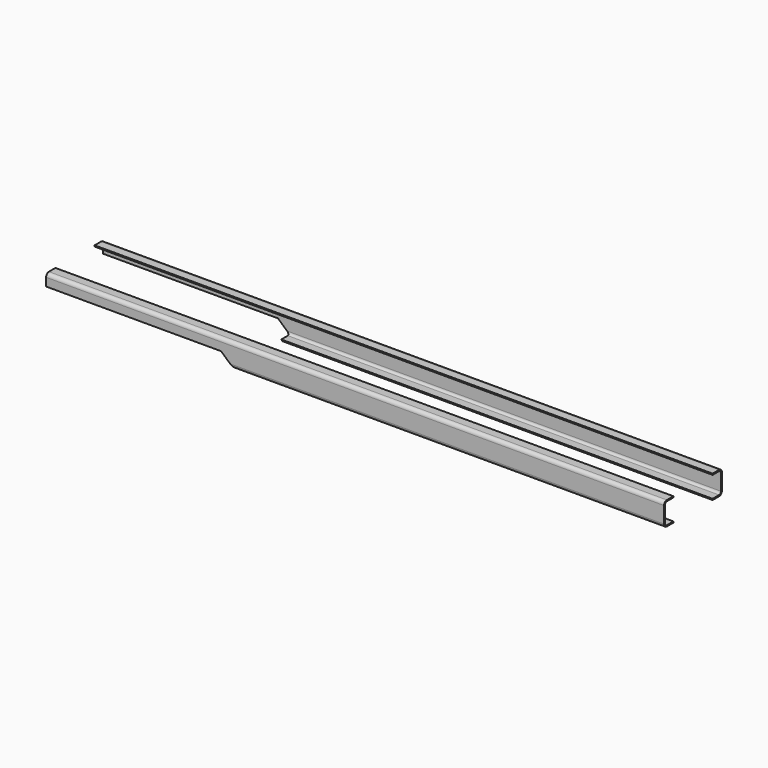
from build123d import *

# Parameters (mm, degrees)
BOX078_W               = 70
BOX078_H               = 62
BOX078_DEPTH           = 20
BOX012_W               = 10
BOX012_H               = 62
BOX012_DEPTH           = 32
BOX012_PLACEMENT_ANGLE = 3
BOX010_W               = 600
BOX010_H               = 10
BOX010_DEPTH           = 18
FILLET006_R            = 2
BOX011_W               = 600
BOX011_H               = 10
BOX011_DEPTH           = 18
FILLET005_R            = 2
BOX006_W               = 150
BOX006_H               = 62
BOX006_DEPTH           = 10
BOX006_PLACEMENT_ANGLE = 3
BOX007_W               = 20
BOX007_H               = 62
BOX007_DEPTH           = 10
BOX007_PLACEMENT_ANGLE = 45
BOX_W                  = 600
BOX_H                  = 10
BOX_DEPTH              = 20
BOX_PLACEMENT_ANGLE    = 3
BOX001_W               = 600
BOX001_H               = 10
BOX001_DEPTH           = 20
BOX001_PLACEMENT_ANGLE = 3
FILLET001_R            = 3
CUT001_PLACEMENT_ANGLE = 3


with BuildPart() as cube048:
    # Box078 → Box078 (new body)
    with BuildSketch(Plane(origin=(530, 0, 0), x_dir=(1, 0, 0), z_dir=(0, 0, 1))):
        with Locations((35, 31)):
            Rectangle(BOX078_W, BOX078_H)
    extrude(amount=BOX078_DEPTH)


with BuildPart() as box012:
    # Box012 → Box012 (new body)
    with BuildSketch(Plane.XY):
        with Locations((5, 31)):
            Rectangle(BOX012_W, BOX012_H)
    extrude(amount=BOX012_DEPTH)


with BuildPart() as box012_1:
    # Box012 placement: moved
    add(box012.part.moved(Location((600, 0, -3.6))).rotate(Axis((600, 0, -3.6), (0, -1, 0)), BOX012_PLACEMENT_ANGLE))


with BuildPart() as fillet006:
    # Box010 → Box010 (new body)
    with BuildSketch(Plane(origin=(0, 1, 1), x_dir=(1, 0, 0), z_dir=(0, 0, 1))):
        with Locations((300, 5)):
            Rectangle(BOX010_W, BOX010_H)
    extrude(amount=BOX010_DEPTH)

    # Fillet006
    fillet006_edges = [fillet006.edges().sort_by_distance(p)[0] for p in [
        (300, 1, 1),
        (300, 1, 19),
    ]]
    fillet(fillet006_edges, radius=FILLET006_R)


with BuildPart() as fusion011:
    # Box011 → Box011 (new body)
    with BuildSketch(Plane(origin=(0, 51, 1), x_dir=(1, 0, 0), z_dir=(0, 0, 1))):
        with Locations((300, 5)):
            Rectangle(BOX011_W, BOX011_H)
    extrude(amount=BOX011_DEPTH)

    # Fillet005
    fillet005_edges = [fusion011.edges().sort_by_distance(p)[0] for p in [
        (300, 61, 1),
        (300, 61, 19),
    ]]
    fillet(fillet005_edges, radius=FILLET005_R)

    # Fusion011: union Fillet006
    add(fillet006.part)


with BuildPart() as box006:
    # Box006 → Box006 (new body)
    with BuildSketch(Plane.XY):
        with Locations((75, 31)):
            Rectangle(BOX006_W, BOX006_H)
    extrude(amount=BOX006_DEPTH)


with BuildPart() as box006_1:
    # Box006 placement: moved
    add(box006.part.rotate(Axis((0, 0, 0), (0, 1, 0)), BOX006_PLACEMENT_ANGLE))


with BuildPart() as fusion005:
    # Box007 → Box007 (new body)
    with BuildSketch(Plane.XY):
        with Locations((10, 31)):
            Rectangle(BOX007_W, BOX007_H)
    extrude(amount=BOX007_DEPTH)


with BuildPart() as fusion005_1:
    # Box007 placement: moved
    add(fusion005.part.moved(Location((143.2, 0, -4.8))).rotate(Axis((143.2, 0, -4.8), (0, 1, 0)), BOX007_PLACEMENT_ANGLE))

    # Fusion005: union Box006
    add(box006_1.part)


with BuildPart() as box:
    # Box → Box (new body)
    with BuildSketch(Plane.XY):
        with Locations((300, 5)):
            Rectangle(BOX_W, BOX_H)
    extrude(amount=BOX_DEPTH)


with BuildPart() as box_1:
    # Box placement: moved
    add(box.part.rotate(Axis((0, 0, 0), (0, 1, 0)), BOX_PLACEMENT_ANGLE))


with BuildPart() as frame:
    # Box001 → Box001 (new body)
    with BuildSketch(Plane.XY):
        with Locations((300, 5)):
            Rectangle(BOX001_W, BOX001_H)
    extrude(amount=BOX001_DEPTH)


with BuildPart() as frame_1:
    # Box001 placement: moved
    add(frame.part.moved(Location((0, 52, 0))).rotate(Axis((0, 52, 0), (0, 1, 0)), BOX001_PLACEMENT_ANGLE))

    # Fusion002: union Box
    add(box_1.part)

    # Fillet001
    fillet001_edges = [frame_1.edges().sort_by_distance(p)[0] for p in [
        (300.63558, 62, 4.271804),
        (299.58886, 62, -15.700787),
        (299.58886, 0, -15.700787),
        (300.63558, 0, 4.271804),
    ]]
    fillet(fillet001_edges, radius=FILLET001_R)

    # Cut001: cut Fusion005
    add(fusion005_1.part, mode=Mode.SUBTRACT)


with BuildPart() as frame_2:
    # Cut001 placement: moved
    add(frame_1.part.rotate(Axis((0, 0, 0), (0, -1, 0)), CUT001_PLACEMENT_ANGLE))

    # Cut007: cut Fusion011
    add(fusion011.part, mode=Mode.SUBTRACT)

    # Cut010: cut Box012
    add(box012_1.part, mode=Mode.SUBTRACT)

    # Cut097: cut Cube048
    add(cube048.part, mode=Mode.SUBTRACT)


with BuildPart() as frame_3:
    # Cut097 placement: moved
    add(frame_2.part.moved(Location((70, 0, 0))))


solid = frame_3.part
